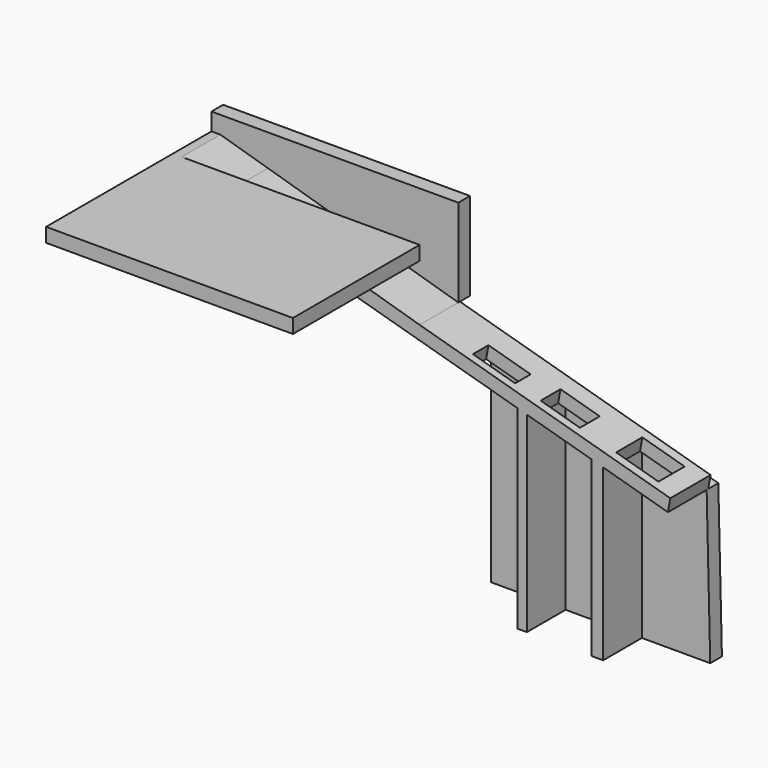
from build123d import *

# Parameters (mm, degrees)
F1_DEPTH = 62.9
F2_DEPTH = 20
F3_START = -19.2
F3_DEPTH = 5.8
F4_W     = 17.40286313
F4_H     = 7.7177907806
F4_W_2   = 16.192227602
F4_H_2   = 9.8363999277
F4_W_3   = 17.4506753683
F4_H_3   = 12.9930109251


with BuildPart() as f1:
    # F0 (on Front) → F1 (new body)
    with BuildSketch(Plane.XZ):
        Polygon((-75.5699121067, 0), (0, 0), (0, 5.6038224138), (-94.5054218173, 5.6038224138), align=None)
        Polygon((-98.0191975832, 0), (-75.5699121067, 0), (-94.5054218173, 5.6038224138), (-98.0191975832, 5.6038224138), align=None)
    extrude(amount=F1_DEPTH)

    # F0 (on Front) → F2 (join)
    with BuildSketch(Plane.XZ):
        Polygon((0, -22.3643500358), (-75.5699121067, 0), (-98.0191975832, 0), (12.9512035679, -31.4862316811), (38.7845113873, -38.8160557302), (42.6020771265, -39.8992342902), (68.3070272207, -47.1926387081), (72.8881061077, -48.4924529801), (98.6080013494, -55.7900978655), (99.5356142521, -50.6061278284), align=None)
        Polygon((-98.0191975832, 0), (-75.5699121067, 0), (-94.5054218173, 5.6038224138), (-98.0191975832, 5.6038224138), align=None)
        Polygon((72.8881061077, -115.9313321114), (72.8881061077, -48.4924529801), (68.3070272207, -47.1926387081), (68.3070272207, -115.9313321114), align=None)
        Polygon((42.6020771265, -39.8992342902), (38.7845113873, -38.8160557302), (38.7845113873, -115.9313321114), (42.6020771265, -115.9313321114), align=None)
    extrude(amount=-F2_DEPTH)

    # F0 (on Front) → F3 (join)
    with BuildSketch(Plane.XZ.offset(F3_START)):
        Polygon((0, -22.3643500358), (0, 0), (-75.5699121067, 0), align=None)
        Polygon((-75.5699121067, 0), (0, 0), (0, 5.6038224138), (-94.5054218173, 5.6038224138), align=None)
        Polygon((-94.5054218173, 5.6038224138), (0, 5.6038224138), (0, 12.5394500792), (-98.0191975832, 12.5394500792), (-98.0191975832, 5.6038224138), align=None)
        Polygon((38.7845113873, -38.8160557302), (12.9512035679, -31.4862316811), (12.9512035679, -115.9313321114), (38.7845113873, -115.9313321114), align=None)
        Polygon((68.3070272207, -47.1926387081), (42.6020771265, -39.8992342902), (42.6020771265, -115.9313321114), (68.3070272207, -115.9313321114), align=None)
        Polygon((100.0360324979, -115.9313321114), (98.6080013494, -55.7900978655), (72.8881061077, -48.4924529801), (72.8881061077, -115.9313321114), align=None)
        Polygon((42.6020771265, -39.8992342902), (38.7845113873, -38.8160557302), (38.7845113873, -115.9313321114), (42.6020771265, -115.9313321114), align=None)
        Polygon((72.8881061077, -115.9313321114), (72.8881061077, -48.4924529801), (68.3070272207, -47.1926387081), (68.3070272207, -115.9313321114), align=None)
    extrude(amount=-F3_DEPTH)

    # F5: sweep along a path in F0
    with BuildLine(Plane.XZ) as f5_path:
        Line((99.5356142521, -50.6061278284), (98.6080013494, -55.7900978655))
    # F4 (on face) → F5 (sweep, cut)
    with BuildSketch(Plane(origin=(-5.872766279, 0, -20.6980383189), x_dir=(0.9620252097, 0, -0.2729606122), z_dir=(0.2729606122, 0, 0.9620252097))):
        with Locations((34.340926446, 6.8220865214)):
            Rectangle(F4_W, F4_H)
        with Locations((61.5801885724, 8.032720536)):
            Rectangle(F4_W_2, F4_H_2)
        with Locations((93.2230502367, 9.7836576169)):
            Rectangle(F4_W_3, F4_H_3)
    sweep(path=f5_path.line, mode=Mode.SUBTRACT)


solid = f1.part
